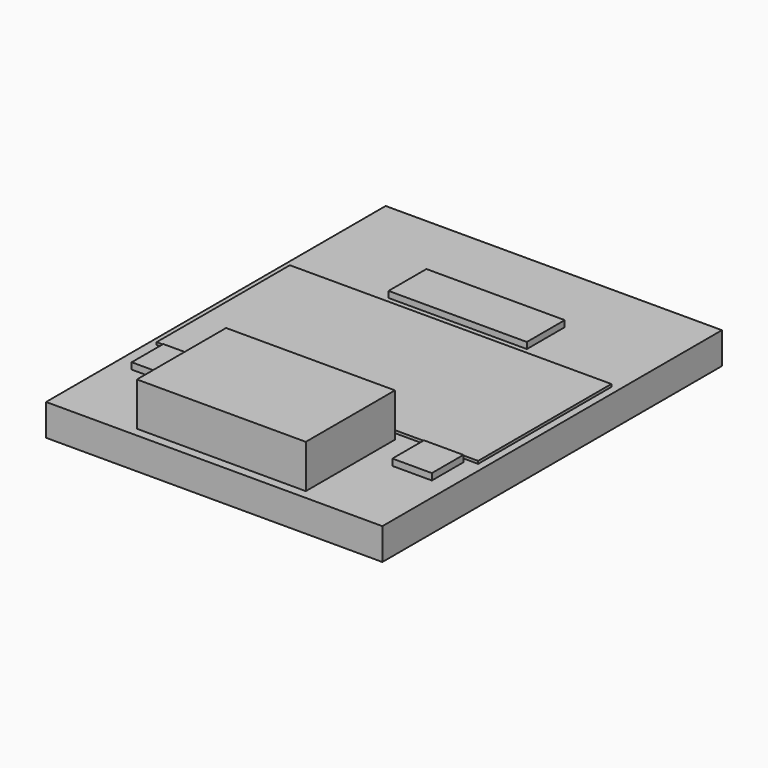
from build123d import *

# Parameters (mm, degrees)
F0_W      = 162.95
F0_H      = 84.4
F3_DEPTH  = 9.35
F1_W      = 20
F1_H      = 20
F4_DEPTH  = 11.3
F2_W      = 70.1
F2_H      = 24
F5_DEPTH  = 11.17
F7_W      = 85.6
F7_H      = 56.5
F8_DEPTH  = 30
F9_W      = 170.443266
F9_H      = 215.131148
F10_DEPTH = 8


with BuildPart() as f3:
    # F0 (on Top) → F3 (new body)
    with BuildSketch(Plane.XY):
        Rectangle(F0_W, F0_H)
    extrude(amount=F3_DEPTH)


with BuildPart() as f4:
    # F1 (on Top) → F4 (new body)
    with BuildSketch(Plane.XY):
        with Locations((-66.065835, -54.767472)):
            Rectangle(F1_W, F1_H)
    extrude(amount=F4_DEPTH)


with BuildPart() as f5:
    # F2 (on Top) → F5 (new body)
    with BuildSketch(Plane.XY):
        with Locations((0, 58.693662)):
            Rectangle(F2_W, F2_H)
    extrude(amount=F5_DEPTH)


with BuildPart() as f6_1:
    # F6: instance of F4
    add(f4.part.mirror(Plane.YZ))


with BuildPart() as f8:
    # F7 (on Top) → F8 (new body)
    with BuildSketch(Plane.XY):
        with Locations((0, -74.794173)):
            Rectangle(F7_W, F7_H)
    extrude(amount=F8_DEPTH)


with BuildPart() as f10:
    # F9 (on Top) → F10 (new body, symmetric)
    with BuildSketch(Plane.XY):
        Rectangle(F9_W, F9_H)
    extrude(amount=F10_DEPTH, both=True)


solid = Compound([f3.part, f4.part, f5.part, f6_1.part, f8.part, f10.part])
